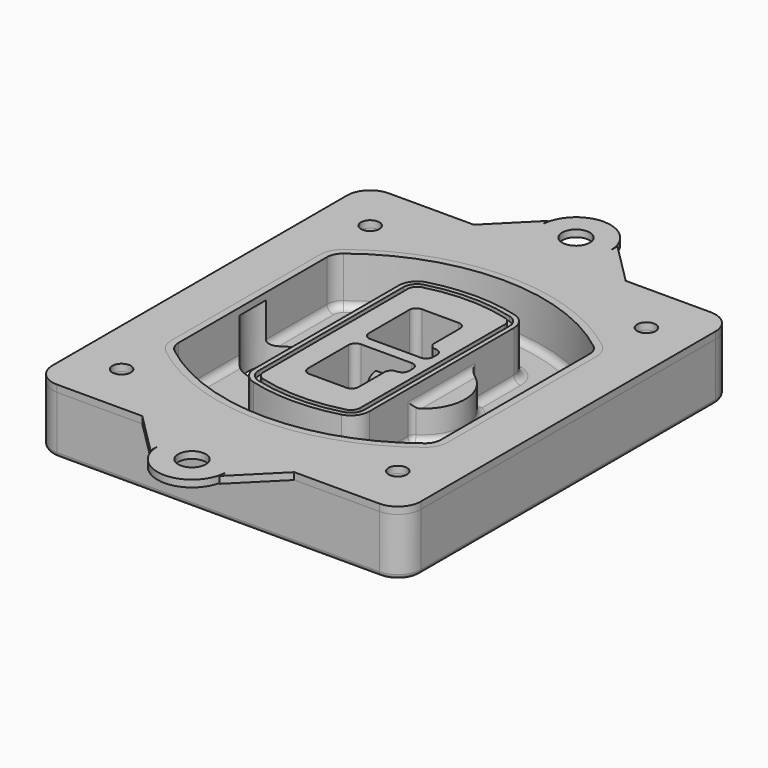
from build123d import *

# Parameters (mm, degrees)
F0_R      = 4
F1_DEPTH  = 25
F2_DEPTH  = 3
F3_DEPTH  = 18
F5_DEPTH  = 21
F6_DEPTH  = 2
F8_DEPTH  = 20
F9_DEPTH  = 16
F10_DEPTH = 25
F7_R      = 6
F7_R_2    = 4
F11_DEPTH = 6
F13_DEPTH = 9
F14_R     = 3
F15_R     = 2
F16_R     = 4
F16_R_2   = 6
F17_DEPTH = 3


with BuildPart() as f1:
    # F0 (on Top) → F1 (new body)
    with BuildSketch(Plane.XY):
        with BuildLine():
            ThreePointArc((-80, -80), (-77.0710678119, -87.0710678119), (-70, -90))
            Line((-70, -90), (70, -90))
            ThreePointArc((70, -90), (77.0710678119, -87.0710678119), (80, -80))
            Line((80, -80), (80, 80))
            ThreePointArc((80, 80), (77.0710678119, 87.0710678119), (70, 90))
            Line((70, 90), (-70, 90))
            ThreePointArc((-70, 90), (-77.0710678119, 87.0710678119), (-80, 80))
            Line((-80, 80), (-80, -80))
        make_face()
        with Locations((-60, -67.5)):
            Circle(F0_R, mode=Mode.SUBTRACT)
        with Locations((60, -67.5)):
            Circle(F0_R, mode=Mode.SUBTRACT)
        with Locations((-60, 67.5)):
            Circle(F0_R, mode=Mode.SUBTRACT)
        with BuildLine():
            ThreePointArc((-64, 40.2934422872), (-62.5820384798, 46.4328484224), (-58.6153846154, 51.3286200352))
            ThreePointArc((-58.6153846154, 51.3286200352), (0, 71.5), (58.6153846154, 51.3286200352))
            ThreePointArc((58.6153846154, 51.3286200352), (62.5820384798, 46.4328484224), (64, 40.2934422872))
            Line((64, 40.2934422872), (64, -40.2934422872))
            ThreePointArc((64, -40.2934422872), (62.5820384798, -46.4328484224), (58.6153846154, -51.3286200352))
            ThreePointArc((58.6153846154, -51.3286200352), (0, -71.5), (-58.6153846154, -51.3286200352))
            ThreePointArc((-58.6153846154, -51.3286200352), (-62.5820384798, -46.4328484224), (-64, -40.2934422872))
            Line((-64, -40.2934422872), (-64, 40.2934422872))
        make_face(mode=Mode.SUBTRACT)
        with Locations((60, 67.5)):
            Circle(F0_R, mode=Mode.SUBTRACT)
        with BuildLine():
            ThreePointArc((58.6153846154, 51.3286200352), (0, 71.5), (-58.6153846154, 51.3286200352))
            ThreePointArc((-58.6153846154, 51.3286200352), (-62.5820384798, 46.4328484224), (-64, 40.2934422872))
            Line((-64, 40.2934422872), (-64, -40.2934422872))
            ThreePointArc((-64, -40.2934422872), (-62.5820384798, -46.4328484224), (-58.6153846154, -51.3286200352))
            ThreePointArc((-58.6153846154, -51.3286200352), (0, -71.5), (58.6153846154, -51.3286200352))
            ThreePointArc((58.6153846154, -51.3286200352), (62.5820384798, -46.4328484224), (64, -40.2934422872))
            Line((64, -40.2934422872), (64, 40.2934422872))
            ThreePointArc((64, 40.2934422872), (62.5820384798, 46.4328484224), (58.6153846154, 51.3286200352))
        make_face()
        with BuildLine():
            Line((-60, -40.2934422872), (-60, 40.2934422872))
            ThreePointArc((-60, 40.2934422872), (-58.9871703427, 44.6787323838), (-56.1538461538, 48.1757121072))
            ThreePointArc((-56.1538461538, 48.1757121072), (0, 67.5), (56.1538461538, 48.1757121072))
            ThreePointArc((56.1538461538, 48.1757121072), (58.9871703427, 44.6787323838), (60, 40.2934422872))
            Line((60, 40.2934422872), (60, -40.2934422872))
            ThreePointArc((60, -40.2934422872), (58.9871703427, -44.6787323838), (56.1538461538, -48.1757121072))
            ThreePointArc((56.1538461538, -48.1757121072), (0, -67.5), (-56.1538461538, -48.1757121072))
            ThreePointArc((-56.1538461538, -48.1757121072), (-58.9871703427, -44.6787323838), (-60, -40.2934422872))
        make_face(mode=Mode.SUBTRACT)
        with BuildLine():
            ThreePointArc((-56.1538461538, 48.1757121072), (-58.9871703427, 44.6787323838), (-60, 40.2934422872))
            Line((-60, 40.2934422872), (-60, -40.2934422872))
            ThreePointArc((-60, -40.2934422872), (-58.9871703427, -44.6787323838), (-56.1538461538, -48.1757121072))
            ThreePointArc((-56.1538461538, -48.1757121072), (0, -67.5), (56.1538461538, -48.1757121072))
            ThreePointArc((56.1538461538, -48.1757121072), (58.9871703427, -44.6787323838), (60, -40.2934422872))
            Line((60, -40.2934422872), (60, 40.2934422872))
            ThreePointArc((60, 40.2934422872), (58.9871703427, 44.6787323838), (56.1538461538, 48.1757121072))
            ThreePointArc((56.1538461538, 48.1757121072), (0, 67.5), (-56.1538461538, 48.1757121072))
        make_face()
        with BuildLine():
            ThreePointArc((54.3076923077, 45.8110311612), (56.2910192399, 43.3631453548), (57, 40.2934422872))
            Line((57, 40.2934422872), (57, -40.2934422872))
            ThreePointArc((57, -40.2934422872), (56.2910192399, -43.3631453548), (54.3076923077, -45.8110311612))
            ThreePointArc((54.3076923077, -45.8110311612), (0, -64.5), (-54.3076923077, -45.8110311612))
            ThreePointArc((-54.3076923077, -45.8110311612), (-56.2910192399, -43.3631453548), (-57, -40.2934422872))
            Line((-57, -40.2934422872), (-57, 40.2934422872))
            ThreePointArc((-57, 40.2934422872), (-56.2910192399, 43.3631453548), (-54.3076923077, 45.8110311612))
            ThreePointArc((-54.3076923077, 45.8110311612), (0, 64.5), (54.3076923077, 45.8110311612))
        make_face(mode=Mode.SUBTRACT)
        with BuildLine():
            Line((57, -40.2934422872), (57, 40.2934422872))
            ThreePointArc((57, 40.2934422872), (56.2910192399, 43.3631453548), (54.3076923077, 45.8110311612))
            ThreePointArc((54.3076923077, 45.8110311612), (0, 64.5), (-54.3076923077, 45.8110311612))
            ThreePointArc((-54.3076923077, 45.8110311612), (-56.2910192399, 43.3631453548), (-57, 40.2934422872))
            Line((-57, 40.2934422872), (-57, -40.2934422872))
            ThreePointArc((-57, -40.2934422872), (-56.2910192399, -43.3631453548), (-54.3076923077, -45.8110311612))
            ThreePointArc((-54.3076923077, -45.8110311612), (0, -64.5), (54.3076923077, -45.8110311612))
            ThreePointArc((54.3076923077, -45.8110311612), (56.2910192399, -43.3631453548), (57, -40.2934422872))
        make_face()
    extrude(amount=-F1_DEPTH)

    # F0 (on Top) → F2 (join)
    with BuildSketch(Plane.XY):
        with BuildLine():
            ThreePointArc((-56.1538461538, 48.1757121072), (-58.9871703427, 44.6787323838), (-60, 40.2934422872))
            Line((-60, 40.2934422872), (-60, -40.2934422872))
            ThreePointArc((-60, -40.2934422872), (-58.9871703427, -44.6787323838), (-56.1538461538, -48.1757121072))
            ThreePointArc((-56.1538461538, -48.1757121072), (0, -67.5), (56.1538461538, -48.1757121072))
            ThreePointArc((56.1538461538, -48.1757121072), (58.9871703427, -44.6787323838), (60, -40.2934422872))
            Line((60, -40.2934422872), (60, 40.2934422872))
            ThreePointArc((60, 40.2934422872), (58.9871703427, 44.6787323838), (56.1538461538, 48.1757121072))
            ThreePointArc((56.1538461538, 48.1757121072), (0, 67.5), (-56.1538461538, 48.1757121072))
        make_face()
        with BuildLine():
            ThreePointArc((54.3076923077, 45.8110311612), (56.2910192399, 43.3631453548), (57, 40.2934422872))
            Line((57, 40.2934422872), (57, -40.2934422872))
            ThreePointArc((57, -40.2934422872), (56.2910192399, -43.3631453548), (54.3076923077, -45.8110311612))
            ThreePointArc((54.3076923077, -45.8110311612), (0, -64.5), (-54.3076923077, -45.8110311612))
            ThreePointArc((-54.3076923077, -45.8110311612), (-56.2910192399, -43.3631453548), (-57, -40.2934422872))
            Line((-57, -40.2934422872), (-57, 40.2934422872))
            ThreePointArc((-57, 40.2934422872), (-56.2910192399, 43.3631453548), (-54.3076923077, 45.8110311612))
            ThreePointArc((-54.3076923077, 45.8110311612), (0, 64.5), (54.3076923077, 45.8110311612))
        make_face(mode=Mode.SUBTRACT)
    extrude(amount=F2_DEPTH)

    # F0 (on Top) → F3 (cut)
    with BuildSketch(Plane.XY):
        with BuildLine():
            Line((57, -40.2934422872), (57, 40.2934422872))
            ThreePointArc((57, 40.2934422872), (56.2910192399, 43.3631453548), (54.3076923077, 45.8110311612))
            ThreePointArc((54.3076923077, 45.8110311612), (0, 64.5), (-54.3076923077, 45.8110311612))
            ThreePointArc((-54.3076923077, 45.8110311612), (-56.2910192399, 43.3631453548), (-57, 40.2934422872))
            Line((-57, 40.2934422872), (-57, -40.2934422872))
            ThreePointArc((-57, -40.2934422872), (-56.2910192399, -43.3631453548), (-54.3076923077, -45.8110311612))
            ThreePointArc((-54.3076923077, -45.8110311612), (0, -64.5), (54.3076923077, -45.8110311612))
            ThreePointArc((54.3076923077, -45.8110311612), (56.2910192399, -43.3631453548), (57, -40.2934422872))
        make_face()
    extrude(amount=-F3_DEPTH, mode=Mode.SUBTRACT)

    # F4 (on face) → F5 (join, through all)
    with BuildSketch(Plane.XY.offset(3)):
        with BuildLine():
            ThreePointArc((-25, -39.2465276821), (-23.3511545998, -44.1109737193), (-19.0842911877, -46.9702398883))
            ThreePointArc((-19.0842911877, -46.9702398883), (0, -49.5), (19.0842911877, -46.9702398883))
            ThreePointArc((19.0842911877, -46.9702398883), (23.3511545998, -44.1109737193), (25, -39.2465276821))
            Line((25, -39.2465276821), (25, 39.2465276821))
            ThreePointArc((25, 39.2465276821), (23.3511545998, 44.1109737193), (19.0842911877, 46.9702398883))
            ThreePointArc((19.0842911877, 46.9702398883), (0, 49.5), (-19.0842911877, 46.9702398883))
            ThreePointArc((-19.0842911877, 46.9702398883), (-23.3511545998, 44.1109737193), (-25, 39.2465276821))
            Line((-25, 39.2465276821), (-25, -39.2465276821))
        make_face()
        with BuildLine():
            ThreePointArc((18.5632183908, 45.0393118368), (21.7633659499, 42.89486221), (23, 39.2465276821))
            Line((23, 39.2465276821), (23, -39.2465276821))
            ThreePointArc((23, -39.2465276821), (21.7633659499, -42.89486221), (18.5632183908, -45.0393118368))
            ThreePointArc((18.5632183908, -45.0393118368), (0, -47.5), (-18.5632183908, -45.0393118368))
            ThreePointArc((-18.5632183908, -45.0393118368), (-21.7633659499, -42.89486221), (-23, -39.2465276821))
            Line((-23, -39.2465276821), (-23, 39.2465276821))
            ThreePointArc((-23, 39.2465276821), (-21.7633659499, 42.89486221), (-18.5632183908, 45.0393118368))
            ThreePointArc((-18.5632183908, 45.0393118368), (0, 47.5), (18.5632183908, 45.0393118368))
        make_face(mode=Mode.SUBTRACT)
        with BuildLine():
            Line((23, -39.2465276821), (23, 39.2465276821))
            ThreePointArc((23, 39.2465276821), (21.7633659499, 42.89486221), (18.5632183908, 45.0393118368))
            ThreePointArc((18.5632183908, 45.0393118368), (0, 47.5), (-18.5632183908, 45.0393118368))
            ThreePointArc((-18.5632183908, 45.0393118368), (-21.7633659499, 42.89486221), (-23, 39.2465276821))
            Line((-23, 39.2465276821), (-23, -39.2465276821))
            ThreePointArc((-23, -39.2465276821), (-21.7633659499, -42.89486221), (-18.5632183908, -45.0393118368))
            ThreePointArc((-18.5632183908, -45.0393118368), (0, -47.5), (18.5632183908, -45.0393118368))
            ThreePointArc((18.5632183908, -45.0393118368), (21.7633659499, -42.89486221), (23, -39.2465276821))
        make_face()
        with BuildLine():
            ThreePointArc((18.0421455939, 43.1083837852), (20.1755772999, 41.6787507007), (21, 39.2465276821))
            Line((21, 39.2465276821), (21, -39.2465276821))
            ThreePointArc((21, -39.2465276821), (20.1755772999, -41.6787507007), (18.0421455939, -43.1083837852))
            ThreePointArc((18.0421455939, -43.1083837852), (0, -45.5), (-18.0421455939, -43.1083837852))
            ThreePointArc((-18.0421455939, -43.1083837852), (-20.1755772999, -41.6787507007), (-21, -39.2465276821))
            Line((-21, -39.2465276821), (-21, 39.2465276821))
            ThreePointArc((-21, 39.2465276821), (-20.1755772999, 41.6787507007), (-18.0421455939, 43.1083837852))
            ThreePointArc((-18.0421455939, 43.1083837852), (0, 45.5), (18.0421455939, 43.1083837852))
        make_face(mode=Mode.SUBTRACT)
        with BuildLine():
            Line((21, -39.2465276821), (21, 39.2465276821))
            ThreePointArc((21, 39.2465276821), (20.1755772999, 41.6787507007), (18.0421455939, 43.1083837852))
            ThreePointArc((18.0421455939, 43.1083837852), (0, 45.5), (-18.0421455939, 43.1083837852))
            ThreePointArc((-18.0421455939, 43.1083837852), (-20.1755772999, 41.6787507007), (-21, 39.2465276821))
            Line((-21, 39.2465276821), (-21, -39.2465276821))
            ThreePointArc((-21, -39.2465276821), (-20.1755772999, -41.6787507007), (-18.0421455939, -43.1083837852))
            ThreePointArc((-18.0421455939, -43.1083837852), (0, -45.5), (18.0421455939, -43.1083837852))
            ThreePointArc((18.0421455939, -43.1083837852), (20.1755772999, -41.6787507007), (21, -39.2465276821))
        make_face()
        with BuildLine():
            Line((-8, -2.5), (14, -2.5))
            ThreePointArc((14, -2.5), (16.1213203436, -3.3786796564), (17, -5.5))
            Line((17, -5.5), (17, -7.5))
            ThreePointArc((17, -7.5), (16.1213203436, -9.6213203436), (14, -10.5))
            ThreePointArc((14, -10.5), (11.8786796564, -11.3786796564), (11, -13.5))
            Line((11, -13.5), (11, -27.5))
            ThreePointArc((11, -27.5), (10.1213203436, -29.6213203436), (8, -30.5))
            Line((8, -30.5), (-8, -30.5))
            ThreePointArc((-8, -30.5), (-10.1213203436, -29.6213203436), (-11, -27.5))
            Line((-11, -27.5), (-11, -5.5))
            ThreePointArc((-11, -5.5), (-10.1213203436, -3.3786796564), (-8, -2.5))
        make_face(mode=Mode.SUBTRACT)
        with BuildLine():
            ThreePointArc((-8, 2.5), (-10.1213203436, 3.3786796564), (-11, 5.5))
            Line((-11, 5.5), (-11, 27.5))
            ThreePointArc((-11, 27.5), (-10.1213203436, 29.6213203436), (-8, 30.5))
            Line((-8, 30.5), (8, 30.5))
            ThreePointArc((8, 30.5), (10.1213203436, 29.6213203436), (11, 27.5))
            Line((11, 27.5), (11, 13.5))
            ThreePointArc((11, 13.5), (11.8786796564, 11.3786796564), (14, 10.5))
            ThreePointArc((14, 10.5), (16.1213203436, 9.6213203436), (17, 7.5))
            Line((17, 7.5), (17, 5.5))
            ThreePointArc((17, 5.5), (16.1213203436, 3.3786796564), (14, 2.5))
            Line((14, 2.5), (-8, 2.5))
        make_face(mode=Mode.SUBTRACT)
    extrude(amount=-F5_DEPTH)

    # F4 (on face) → F6 (cut)
    with BuildSketch(Plane.XY.offset(3)):
        with BuildLine():
            Line((23, -39.2465276821), (23, 39.2465276821))
            ThreePointArc((23, 39.2465276821), (21.7633659499, 42.89486221), (18.5632183908, 45.0393118368))
            ThreePointArc((18.5632183908, 45.0393118368), (0, 47.5), (-18.5632183908, 45.0393118368))
            ThreePointArc((-18.5632183908, 45.0393118368), (-21.7633659499, 42.89486221), (-23, 39.2465276821))
            Line((-23, 39.2465276821), (-23, -39.2465276821))
            ThreePointArc((-23, -39.2465276821), (-21.7633659499, -42.89486221), (-18.5632183908, -45.0393118368))
            ThreePointArc((-18.5632183908, -45.0393118368), (0, -47.5), (18.5632183908, -45.0393118368))
            ThreePointArc((18.5632183908, -45.0393118368), (21.7633659499, -42.89486221), (23, -39.2465276821))
        make_face()
        with BuildLine():
            ThreePointArc((18.0421455939, 43.1083837852), (20.1755772999, 41.6787507007), (21, 39.2465276821))
            Line((21, 39.2465276821), (21, -39.2465276821))
            ThreePointArc((21, -39.2465276821), (20.1755772999, -41.6787507007), (18.0421455939, -43.1083837852))
            ThreePointArc((18.0421455939, -43.1083837852), (0, -45.5), (-18.0421455939, -43.1083837852))
            ThreePointArc((-18.0421455939, -43.1083837852), (-20.1755772999, -41.6787507007), (-21, -39.2465276821))
            Line((-21, -39.2465276821), (-21, 39.2465276821))
            ThreePointArc((-21, 39.2465276821), (-20.1755772999, 41.6787507007), (-18.0421455939, 43.1083837852))
            ThreePointArc((-18.0421455939, 43.1083837852), (0, 45.5), (18.0421455939, 43.1083837852))
        make_face(mode=Mode.SUBTRACT)
    extrude(amount=-F6_DEPTH, mode=Mode.SUBTRACT)

    # F7 (on face) → F8 (join)
    with BuildSketch(Plane(origin=(0, 0, -25), x_dir=(1, 0, 0), z_dir=(0, 0, -1))):
        with BuildLine():
            ThreePointArc((3.28842436, 0), (16.7567035675, 13.4682792075), (30.224982775, 0))
            Line((30.224982775, 0), (35.224982775, 0))
            ThreePointArc((35.224982775, 0), (16.7567035675, 18.4682792075), (-1.71157564, 0))
            Line((-1.71157564, 0), (3.28842436, 0))
        make_face()
        with BuildLine():
            Line((3.28842436, 0), (30.224982775, 0))
            ThreePointArc((30.224982775, 0), (16.7567035675, 13.4682792075), (3.28842436, 0))
        make_face()
        with BuildLine():
            ThreePointArc((3.28842436, 0), (16.7567035675, -13.4682792075), (30.224982775, 0))
            Line((30.224982775, 0), (3.28842436, 0))
        make_face()
        with BuildLine():
            Line((35.224982775, 0), (30.224982775, 0))
            ThreePointArc((30.224982775, 0), (16.7567035675, -13.4682792075), (3.28842436, 0))
            Line((3.28842436, 0), (-1.71157564, 0))
            ThreePointArc((-1.71157564, 0), (16.7567035675, -18.4682792075), (35.224982775, 0))
        make_face()
    extrude(amount=-F8_DEPTH)

    # F7 (on face) → F9 (cut)
    with BuildSketch(Plane(origin=(0, 0, -25), x_dir=(1, 0, 0), z_dir=(0, 0, -1))):
        with BuildLine():
            Line((3.28842436, 0), (30.224982775, 0))
            ThreePointArc((30.224982775, 0), (16.7567035675, 13.4682792075), (3.28842436, 0))
        make_face()
        with BuildLine():
            ThreePointArc((3.28842436, 0), (16.7567035675, -13.4682792075), (30.224982775, 0))
            Line((30.224982775, 0), (3.28842436, 0))
        make_face()
    extrude(amount=-F9_DEPTH, mode=Mode.SUBTRACT)

    # F7 (on face) → F10 (cut)
    with BuildSketch(Plane(origin=(0, 0, -25), x_dir=(1, 0, 0), z_dir=(0, 0, -1))):
        with BuildLine():
            Line((-59.0318229325, 0), (-32.0952645175, 0))
            ThreePointArc((-32.0952645175, 0), (-45.563543725, 13.4682792075), (-59.0318229325, 0))
        make_face()
        with BuildLine():
            ThreePointArc((-59.0318229325, 0), (-45.563543725, -13.4682792075), (-32.0952645175, 0))
            Line((-32.0952645175, 0), (-59.0318229325, 0))
        make_face()
    extrude(amount=-F10_DEPTH, mode=Mode.SUBTRACT)

    # F7 (on face) → F11 (cut)
    with BuildSketch(Plane(origin=(0, 0, -25), x_dir=(1, 0, 0), z_dir=(0, 0, -1))):
        with Locations((60, -67.5)):
            Circle(F7_R)
        with Locations((60, -67.5)):
            Circle(F7_R_2, mode=Mode.SUBTRACT)
        with Locations((60, -67.5)):
            Circle(F7_R)
        with Locations((60, -67.5)):
            Circle(F7_R_2, mode=Mode.SUBTRACT)
        with Locations((-60, -67.5)):
            Circle(F7_R)
        with Locations((-60, -67.5)):
            Circle(F7_R_2, mode=Mode.SUBTRACT)
        with Locations((-60, -67.5)):
            Circle(F7_R)
        with Locations((-60, -67.5)):
            Circle(F7_R_2, mode=Mode.SUBTRACT)
        with Locations((-60, 67.5)):
            Circle(F7_R)
        with Locations((-60, 67.5)):
            Circle(F7_R_2, mode=Mode.SUBTRACT)
        with Locations((-60, 67.5)):
            Circle(F7_R)
        with Locations((-60, 67.5)):
            Circle(F7_R_2, mode=Mode.SUBTRACT)
        with Locations((60, 67.5)):
            Circle(F7_R)
        with Locations((60, 67.5)):
            Circle(F7_R_2, mode=Mode.SUBTRACT)
        with Locations((60, 67.5)):
            Circle(F7_R)
        with Locations((60, 67.5)):
            Circle(F7_R_2, mode=Mode.SUBTRACT)
    extrude(amount=-F11_DEPTH, mode=Mode.SUBTRACT)

    # F12 (on face) → F13 (cut, through all)
    with BuildSketch(Plane(origin=(0, 0, -9), x_dir=(1, 0, 0), z_dir=(0, 0, -1))):
        with BuildLine():
            Line((11, 13.5), (11, 17.5481537753))
            ThreePointArc((11, 17.5481537753), (2.5696536419, 11.8239143813), (-1.5415842455, 2.5))
            Line((-1.5415842455, 2.5), (3.5224848595, 2.5))
            ThreePointArc((3.5224848595, 2.5), (6.1857188154, 8.3455872281), (11.2536447004, 12.2927168648))
            ThreePointArc((11.2536447004, 12.2927168648), (11.0640958889, 12.8831798879), (11, 13.5))
        make_face()
        with BuildLine():
            ThreePointArc((11.2536447004, -12.2927168648), (6.1857188154, -8.3455872281), (3.5224848595, -2.5))
            Line((3.5224848595, -2.5), (-1.5415842455, -2.5))
            ThreePointArc((-1.5415842455, -2.5), (2.5696536419, -11.8239143813), (11, -17.5481537753))
            Line((11, -17.5481537753), (11, -13.5))
            ThreePointArc((11, -13.5), (11.0640958889, -12.8831798879), (11.2536447004, -12.2927168648))
        make_face()
        with BuildLine():
            ThreePointArc((11.2536447004, 12.2927168648), (6.1857188154, 8.3455872281), (3.5224848595, 2.5))
            Line((3.5224848595, 2.5), (14, 2.5))
            ThreePointArc((14, 2.5), (16.1213203436, 3.3786796564), (17, 5.5))
            Line((17, 5.5), (17, 7.5))
            ThreePointArc((17, 7.5), (16.1213203436, 9.6213203436), (14, 10.5))
            ThreePointArc((14, 10.5), (12.3601599782, 10.9878446101), (11.2536447004, 12.2927168648))
        make_face()
        with BuildLine():
            Line((14, -2.5), (3.5224848595, -2.5))
            ThreePointArc((3.5224848595, -2.5), (6.1857188154, -8.3455872281), (11.2536447004, -12.2927168648))
            ThreePointArc((11.2536447004, -12.2927168648), (12.3601599782, -10.9878446101), (14, -10.5))
            ThreePointArc((14, -10.5), (16.1213203436, -9.6213203436), (17, -7.5))
            Line((17, -7.5), (17, -5.5))
            ThreePointArc((17, -5.5), (16.1213203436, -3.3786796564), (14, -2.5))
        make_face()
    extrude(amount=F13_DEPTH, mode=Mode.SUBTRACT)

    # F14
    f14_edges = [f1.edges().sort_by_distance(p)[0] for p in [
        (-57, -23.703476, -18),
        (-57, 23.703476, -18),
        (25, 0, -5),
        (25, 16.526506, -11.5),
        (25, -16.526506, -11.5),
        (25, -27.886517, -18),
        (35.224983, 0, -18),
    ]]
    fillet(f14_edges, radius=F14_R)

    # F15
    f15_edges = [f1.edges().sort_by_distance(p)[0] for p in [
        (0, -90, -25),
    ]]
    fillet(f15_edges, radius=F15_R)


with BuildPart() as f17:
    # F16 (on face) → F17 (new body, through all)
    with BuildSketch(Plane.XY):
        with BuildLine():
            Line((70, 90), (33, 90))
            Line((33, 90), (-33, 90))
            Line((-33, 90), (-70, 90))
            ThreePointArc((-70, 90), (-77.0710678119, 87.0710678119), (-80, 80))
            Line((-80, 80), (-80, -80))
            ThreePointArc((-80, -80), (-77.0710678119, -87.0710678119), (-70, -90))
            Line((-70, -90), (-33, -90))
            Line((-33, -90), (33, -90))
            Line((33, -90), (70, -90))
            ThreePointArc((70, -90), (77.0710678119, -87.0710678119), (80, -80))
            Line((80, -80), (80, 80))
            ThreePointArc((80, 80), (77.0710678119, 87.0710678119), (70, 90))
        make_face()
        with Locations((-60, -67.5)):
            Circle(F16_R, mode=Mode.SUBTRACT)
        with Locations((60, -67.5)):
            Circle(F16_R, mode=Mode.SUBTRACT)
        with BuildLine():
            ThreePointArc((-60, 40.2934422872), (-58.9871703427, 44.6787323838), (-56.1538461538, 48.1757121072))
            ThreePointArc((-56.1538461538, 48.1757121072), (0, 67.5), (56.1538461538, 48.1757121072))
            ThreePointArc((56.1538461538, 48.1757121072), (58.9871703427, 44.6787323838), (60, 40.2934422872))
            Line((60, 40.2934422872), (60, -40.2934422872))
            ThreePointArc((60, -40.2934422872), (58.9871703427, -44.6787323838), (56.1538461538, -48.1757121072))
            ThreePointArc((56.1538461538, -48.1757121072), (0, -67.5), (-56.1538461538, -48.1757121072))
            ThreePointArc((-56.1538461538, -48.1757121072), (-58.9871703427, -44.6787323838), (-60, -40.2934422872))
            Line((-60, -40.2934422872), (-60, 40.2934422872))
        make_face(mode=Mode.SUBTRACT)
        with Locations((-60, 67.5)):
            Circle(F16_R, mode=Mode.SUBTRACT)
        with Locations((60, 67.5)):
            Circle(F16_R, mode=Mode.SUBTRACT)
        with BuildLine():
            Line((15, -108), (33, -90))
            Line((33, -90), (-33, -90))
            Line((-33, -90), (-15, -108))
            Line((-15, -108), (-15, -104.25))
            ThreePointArc((-15, -104.25), (0, -119.25), (15, -104.25))
            Line((15, -104.25), (15, -108))
        make_face()
        with Locations((0, -104.25)):
            Circle(F16_R_2, mode=Mode.SUBTRACT)
        with BuildLine():
            Line((15, 108), (15, 104.25))
            ThreePointArc((15, 104.25), (0, 119.25), (-15, 104.25))
            Line((-15, 104.25), (-15, 108))
            Line((-15, 108), (-33, 90))
            Line((-33, 90), (33, 90))
            Line((33, 90), (15, 108))
        make_face()
        with Locations((0, 104.25)):
            Circle(F16_R_2, mode=Mode.SUBTRACT)
    extrude(amount=F17_DEPTH)


solid = Compound([f1.part, f17.part])
